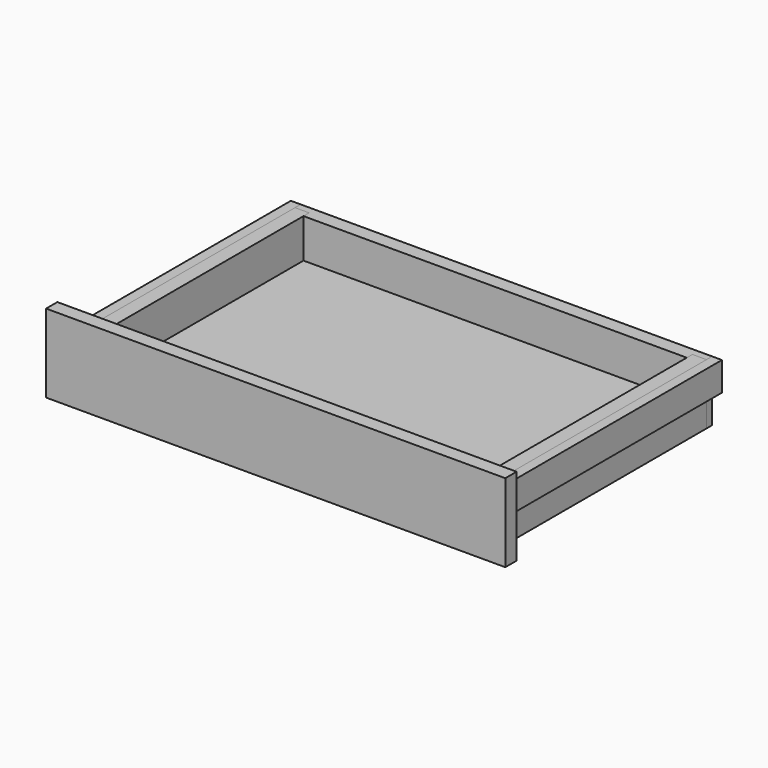
from build123d import *

# Parameters (mm, degrees)
F5_DEPTH       = 78.58125
F1_W           = 18.25625
F1_H           = 337.34375
F6_DEPTH       = 78.58125
F2_W           = 595.3125
F2_H           = 18.25625
F7_DEPTH       = 101.6
F3_W           = 515.14375
F3_H           = 15.08125
F8_DEPTH       = 168.671875
F8_DEPTH_BACK  = 168.671875
F9_DEPTH       = 168.671875
F9_DEPTH_BACK  = 168.671875
F4_W           = 12.7
F4_H           = 37.30625
F10_DEPTH      = 177.8
F10_DEPTH_BACK = 177.8


with BuildPart() as f5:
    # F0 (on Top) → F5 (new body)
    with BuildSketch(Plane.XY):
        Polygon((266.7, 177.8), (-266.7, 177.8), (-266.7, 168.671875), (-248.44375, 168.671875), (-248.44375, 159.54375), (248.44375, 159.54375), (248.44375, 168.671875), (266.7, 168.671875), align=None)
    extrude(amount=F5_DEPTH)


with BuildPart() as f5b:
    # F0 (on Top) → F5, piece 2 (new body)
    with BuildSketch(Plane.XY):
        Polygon((-266.7, -177.8), (266.7, -177.8), (266.7, -168.671875), (248.44375, -168.671875), (248.44375, -159.54375), (-248.44375, -159.54375), (-248.44375, -168.671875), (-266.7, -168.671875), align=None)
    extrude(amount=F5_DEPTH)


with BuildPart() as f6:
    # F1 (on Top) → F6 (new body, through all)
    with BuildSketch(Plane.XY):
        with Locations((-257.571875, 0)):
            Rectangle(F1_W, F1_H)
    extrude(amount=F6_DEPTH)


with BuildPart() as f6b:
    # F1 (on Top) → F6, piece 2 (new body, through all)
    with BuildSketch(Plane.XY):
        with Locations((257.571875, 0)):
            Rectangle(F1_W, F1_H)
    extrude(amount=F6_DEPTH)


with BuildPart() as f7:
    # F2 (on Top) → F7 (new body)
    with BuildSketch(Plane.XY):
        with Locations((0, -186.928125)):
            Rectangle(F2_W, F2_H)
    extrude(amount=F7_DEPTH)


with BuildPart() as f8_tool:
    # F3 (on Front) → F8 (new body, two sides)
    with BuildSketch(Plane.XZ) as f8_sk:
        with Locations((0, 20.240625)):
            Rectangle(F3_W, F3_H)
    extrude(amount=-F8_DEPTH)
    extrude(f8_sk.sketch, amount=F8_DEPTH_BACK)


with BuildPart() as f5_1:
    add(f5.part)

    # F8: cut by f8_tool
    add(f8_tool.part, mode=Mode.SUBTRACT)


with BuildPart() as f5b_1:
    add(f5b.part)

    # F8: cut by f8_tool
    add(f8_tool.part, mode=Mode.SUBTRACT)


with BuildPart() as f6_1:
    add(f6.part)

    # F8: cut by f8_tool
    add(f8_tool.part, mode=Mode.SUBTRACT)


with BuildPart() as f6b_1:
    add(f6b.part)

    # F8: cut by f8_tool
    add(f8_tool.part, mode=Mode.SUBTRACT)


with BuildPart() as f9:
    # F3 (on Front) → F9 (new body, two sides)
    with BuildSketch(Plane.XZ) as f9_sk:
        with Locations((0, 20.240625)):
            Rectangle(F3_W, F3_H)
    extrude(amount=F9_DEPTH)
    extrude(f9_sk.sketch, amount=-F9_DEPTH_BACK)


with BuildPart() as f10:
    # F4 (on Front) → F10 (new body, two sides)
    with BuildSketch(Plane.XZ) as f10_sk:
        with Locations((-273.05, 59.928125)):
            Rectangle(F4_W, F4_H)
    extrude(amount=F10_DEPTH)
    extrude(f10_sk.sketch, amount=-F10_DEPTH_BACK)


with BuildPart() as f10b:
    # F4 (on Front) → F10, piece 2 (new body, two sides)
    with BuildSketch(Plane.XZ) as f10_2_sk:
        with Locations((273.05, 59.928125)):
            Rectangle(F4_W, F4_H)
    extrude(amount=F10_DEPTH)
    extrude(f10_2_sk.sketch, amount=-F10_DEPTH_BACK)


solid = Compound([f7.part, f5_1.part, f5b_1.part, f6_1.part, f6b_1.part, f9.part, f10.part, f10b.part])
